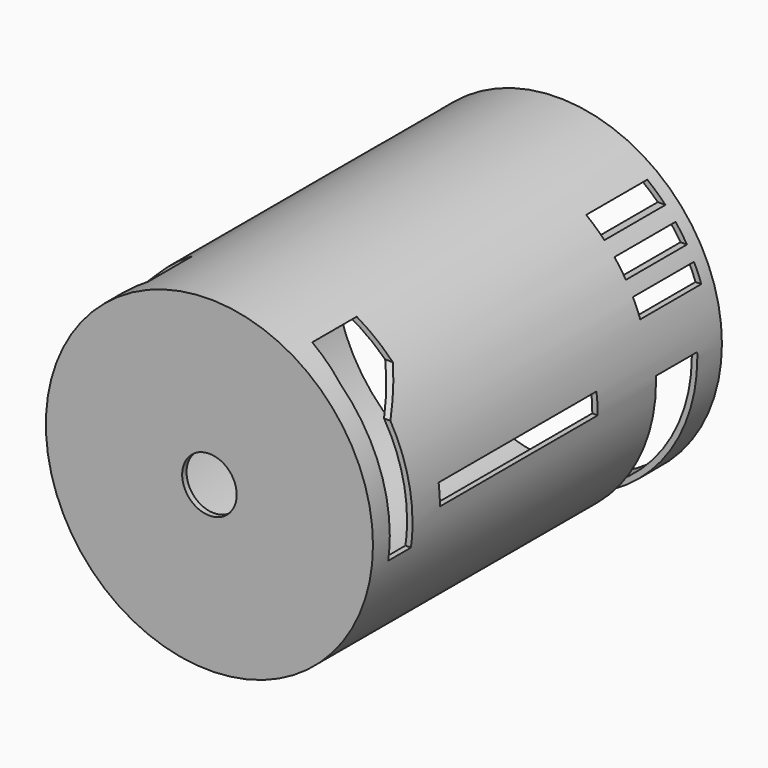
from build123d import *

# Parameters (mm, degrees)
F0_R      = 76.2
F1_DEPTH  = 203.2
F2_R      = 12.7
F3_DEPTH  = 38.1
F4_T      = -2.54
F5_W      = 35.56
F5_H      = 7.62
F5_H_2    = 8.0591589212
F6_DEPTH  = 88.9
F7_R      = 12.7
F8_DEPTH  = 241.301
F9_W      = 24.0467190742
F9_H      = 68.9339339733
F9_W_2    = 91.9119119644
F9_H_2    = 9.6131237224
F10_DEPTH = 127


with BuildPart() as f1:
    # F0 (on Front) → F1 (new body)
    with BuildSketch(Plane.XZ):
        Circle(F0_R)
    extrude(amount=F1_DEPTH)

    # F2 (on face) → F3 (join)
    with BuildSketch(Plane.XZ.offset(203.2)):
        Circle(F2_R)
    extrude(amount=F3_DEPTH)

    # F4
    f4_openings = [f1.faces().sort_by_distance(p)[0] for p in [
        (0, 0, 0),
    ]]
    offset(amount=F4_T, openings=f4_openings, kind=Kind.INTERSECTION)

    # F5 (on Right) → F6 (cut, symmetric)
    with BuildSketch(Plane.YZ):
        with Locations((-24.2427656141, 56.4823563671)):
            Rectangle(F5_W, F5_H)
        with Locations((-24.2427656141, 43.4618890285)):
            Rectangle(F5_W, F5_H)
        with Locations((-24.2427656141, 29.6461898834)):
            Rectangle(F5_W, F5_H_2)
        Polygon((-165.2127504349, 65.9124031663), (-191.117182374, 65.9124031663), (-193.4197992086, 54.3993189931), (-193.4197992086, -10.6496037915), (-180.17975986, -10.6496037915), (-180.17975986, 38.2810048759), (-165.2127504349, 52.6723563671), align=None)
    extrude(amount=F6_DEPTH, both=True, mode=Mode.SUBTRACT)

    # F7 (on face) → F8 (cut, through all)
    with BuildSketch(Plane.XZ.offset(241.3)):
        Circle(F7_R)
    extrude(amount=-F8_DEPTH, mode=Mode.SUBTRACT)

    # F9 (on Right) → F10 (cut, symmetric)
    with BuildSketch(Plane.YZ):
        with Locations((-26.3611767441, -32.0650786161)):
            Rectangle(F9_W, F9_H)
        with Locations((-118.2730868459, 4.8065618612)):
            Rectangle(F9_W_2, F9_H_2)
    extrude(amount=F10_DEPTH, both=True, mode=Mode.SUBTRACT)


solid = f1.part
